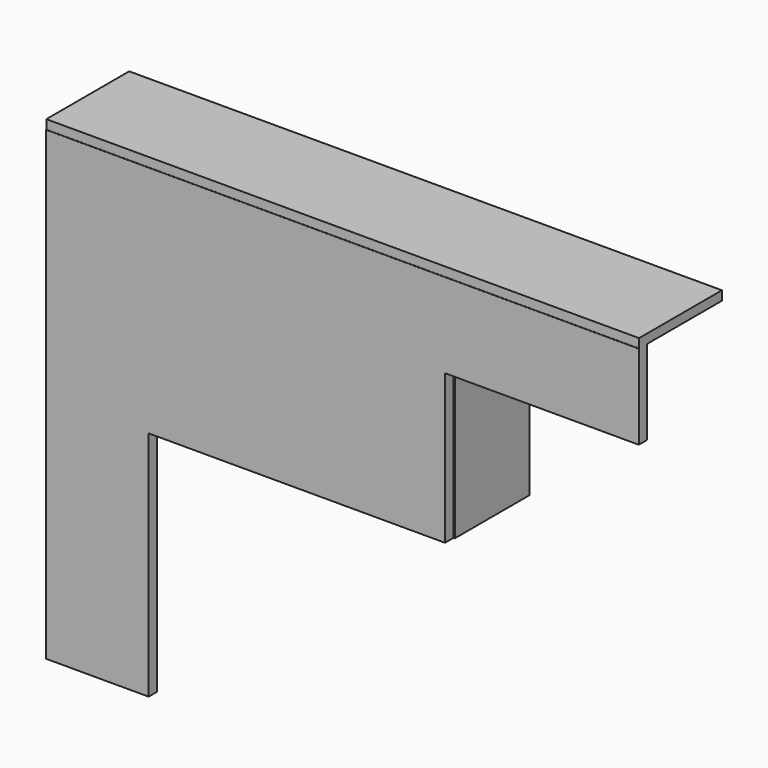
from build123d import *

# Parameters (mm, degrees)
F0_W     = 116.2599772215
F0_H     = 70.1507925987
F1_DEPTH = 27.94
F2_W     = 3.7873648107
F2_H     = 27.94
F3_DEPTH = 139.7
F4_W     = 28.065841645
F4_H     = 2.7693584561
F4_W_2   = 3.0061341822
F5_DEPTH = 177.8
F7_DEPTH = 88.9


with BuildPart() as f1:
    # F0 (on Front) → F1 (new body)
    with BuildSketch(Plane.XZ):
        Rectangle(F0_W, F0_H)
    extrude(amount=F1_DEPTH)

    # F2 (on face) → F3 (join)
    with BuildSketch(Plane.XY.offset(35.0753962994)):
        with Locations((-60.0236710161, -13.97)):
            Rectangle(F2_W, F2_H)
        Polygon((-31.1518013477, -27.94), (-58.1299886107, -27.94), (-61.9173534214, -27.94), (-61.9173534214, -31.1609115452), (-31.1518013477, -31.1609115452), align=None)
    extrude(amount=-F3_DEPTH)

    # F4 (on face) → F5 (join)
    with BuildSketch(Plane(origin=(-61.9173534214, 0, 0), x_dir=(0, -1, 0), z_dir=(-1, 0, 0))):
        with Locations((14.0329208225, 36.4600755274)):
            Rectangle(F4_W, F4_H)
        Polygon((31.0719758272, 35.0753962994), (28.065841645, 35.0753962994), (28.065841645, 9.7159240395), (31.1609115452, 9.7159240395), (31.1609115452, 35.0753962994), align=None)
        with Locations((29.5689087361, 36.4600755274)):
            Rectangle(F4_W_2, F4_H)
    extrude(amount=-F5_DEPTH)

    # F6 (on face) → F7 (join)
    with BuildSketch(Plane.YZ.offset(-31.1518013477)):
        Polygon((-28.065841645, 9.7159240395), (-31.1609115452, 9.7159240395), (-31.1609115452, -35.0753962994), (-27.94, -35.0753962994), (-27.94, 9.7159240395), align=None)
    extrude(amount=F7_DEPTH)


solid = f1.part
